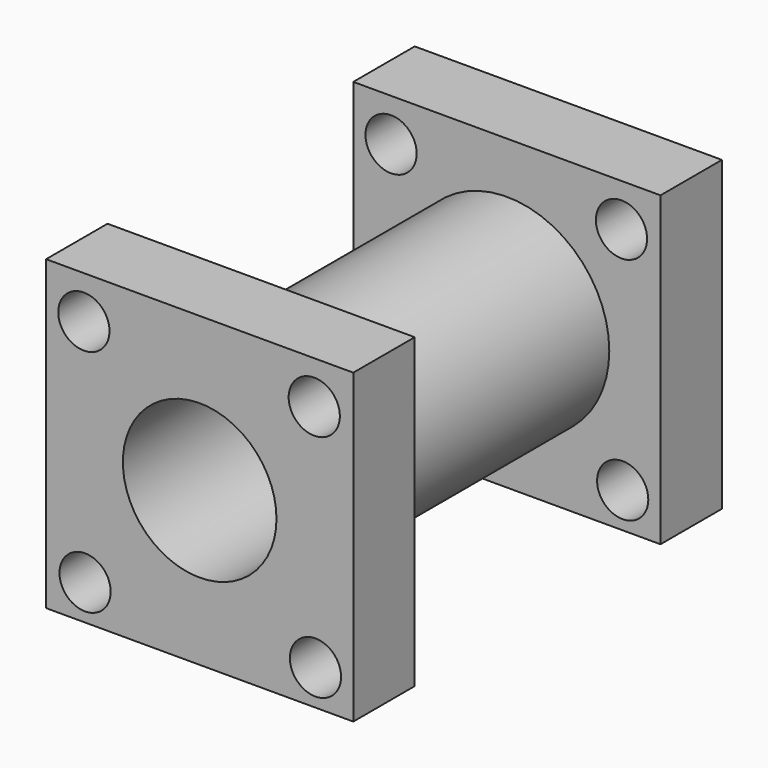
from build123d import *

# Parameters (mm, degrees)
F0_W      = 76.2
F0_H      = 76.2
F1_DEPTH  = 19.05
F2_R      = 25.4
F3_DEPTH  = 76.2
F4_W      = 76.2
F4_H      = 76.2
F5_DEPTH  = 19.05
F6_R      = 19.05
F8_DEPTH  = 114.3
F9_R      = 6.35
F10_DEPTH = 114.3


with BuildPart() as f1:
    # F0 (on Front) → F1 (new body)
    with BuildSketch(Plane.XZ):
        Rectangle(F0_W, F0_H)
    extrude(amount=F1_DEPTH)

    # F2 (on face) → F3 (join)
    with BuildSketch(Plane.XZ.offset(19.05)):
        Circle(F2_R)
    extrude(amount=F3_DEPTH)

    # F4 (on face) → F5 (join)
    with BuildSketch(Plane.XZ.offset(95.25)):
        Rectangle(F4_W, F4_H)
    extrude(amount=F5_DEPTH)

    # F6 (on face) → F8 (cut)
    with BuildSketch(Plane.XZ.offset(114.3)):
        Circle(F6_R)
    extrude(amount=-F8_DEPTH, mode=Mode.SUBTRACT)

    # F9 (on face) → F10 (cut)
    with BuildSketch(Plane.XZ.offset(114.3)):
        with Locations((-28.725395, 27.522238)):
            Circle(F9_R)
        with Locations((-28.424606, -29.326973)):
            Circle(F9_R)
        with Locations((28.725393, -29.326973)):
            Circle(F9_R)
        with Locations((28.424604, 27.522238)):
            Circle(F9_R)
    extrude(amount=-F10_DEPTH, mode=Mode.SUBTRACT)


solid = f1.part
